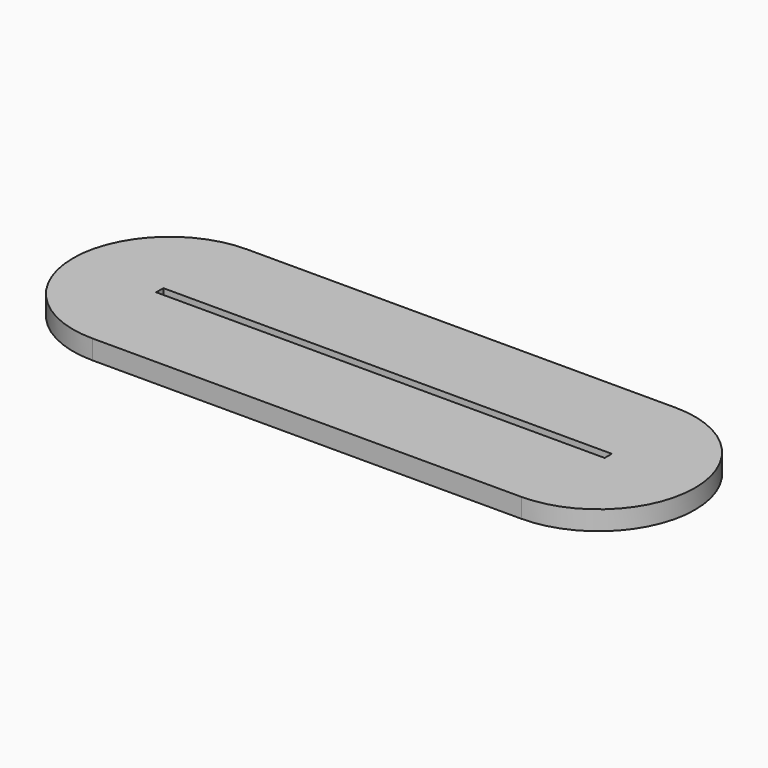
from build123d import *

# Parameters (mm, degrees)
PAD_DEPTH    = 3
PAD001_DEPTH = 3
SKETCH002_W  = 209.08447
SKETCH002_H  = 4.18
PAD002_DEPTH = 3


with BuildPart() as part:
    # Sketch → Pad (new body)
    with BuildSketch(Plane.XY):
        with BuildLine():
            ThreePointArc((-100, 45), (-145, 0), (-100, -45))
            Line((-100, -45), (100, -45))
            ThreePointArc((100, -45), (145, 0), (100, 45))
            Line((-100, 45), (100, 45))
        make_face()
    extrude(amount=PAD_DEPTH)

    # Sketch001 (on Face6 of Pad) → Pad001 (join)
    with BuildSketch(Plane.XY.offset(3)):
        with BuildLine():
            ThreePointArc((-100, 45), (-145, 0), (-100, -45))
            Line((-100, -45), (100, -45))
            ThreePointArc((100, -45), (145, 0), (100, 45))
            Line((-100, 45), (100, 45))
        make_face()
        with BuildLine():
            ThreePointArc((-100, 5), (-105, 0), (-100, -5))
            Line((-100, -5), (100, -5))
            ThreePointArc((100, -5), (105, 0), (100, 5))
            Line((-100, 5), (100, 5))
        make_face(mode=Mode.SUBTRACT)
    extrude(amount=PAD001_DEPTH)

    # Sketch002 (on Face9 of Pad001) → Pad002 (join)
    with BuildSketch(Plane.XY.offset(6)):
        with BuildLine():
            ThreePointArc((-100, 45), (-145, 0), (-100, -45))
            Line((-100, -45), (100, -45))
            ThreePointArc((100, -45), (145, 0), (100, 45))
            Line((-100, 45), (100, 45))
        make_face()
        Rectangle(SKETCH002_W, SKETCH002_H, mode=Mode.SUBTRACT)
    extrude(amount=PAD002_DEPTH)


solid = part.part
